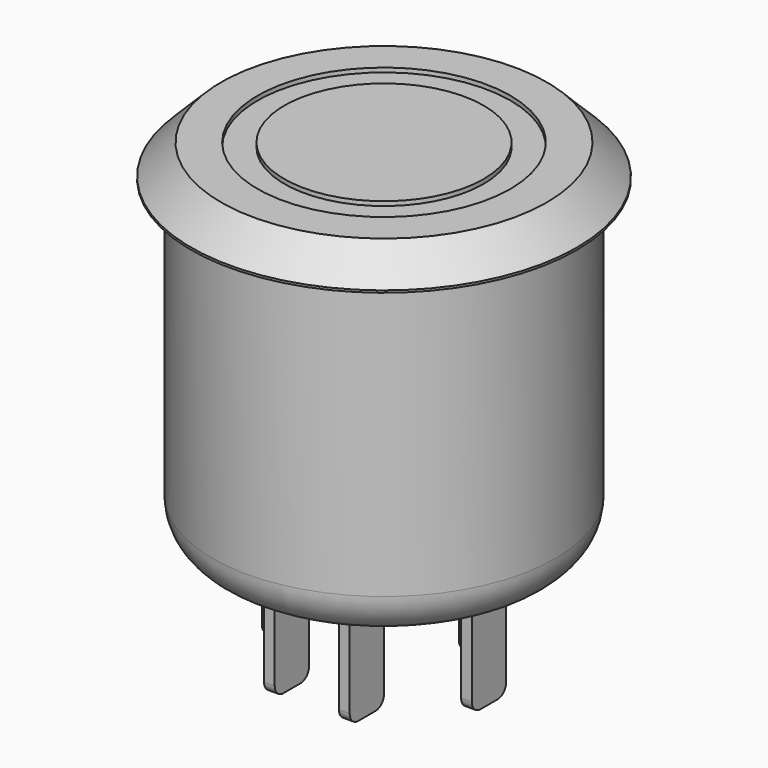
from build123d import *

# Parameters (mm, degrees)
F0_R     = 9
F1_DEPTH = 1.5
F2_SIZE  = 1.4
F3_R     = 5.9
F3_R_2   = 4.65
F4_DEPTH = 0.2
F5_R     = 8
F6_DEPTH = 15
F7_R     = 2
F8_W     = 0.5
F8_H     = 2
F9_DEPTH = 5
F10_R    = 0.5


with BuildPart() as f1:
    # F0 (on Top) → F1 (new body)
    with BuildSketch(Plane.XY):
        Circle(F0_R)
    extrude(amount=F1_DEPTH)

    # F2
    f2_edges = [f1.edges().sort_by_distance(p)[0] for p in [
        (-9, 0, 1.5),
    ]]
    chamfer(f2_edges, length=F2_SIZE)

    # F3 (on face) → F4 (cut)
    with BuildSketch(Plane.XY.offset(1.5)):
        Circle(F3_R)
        Circle(F3_R_2, mode=Mode.SUBTRACT)
    extrude(amount=-F4_DEPTH, mode=Mode.SUBTRACT)

    # F5 (on face) → F6 (join)
    with BuildSketch(Plane(origin=(0, 0, 0), x_dir=(1, 0, 0), z_dir=(0, 0, -1))):
        Circle(F5_R)
    extrude(amount=F6_DEPTH)

    # F7
    f7_edges = [f1.edges().sort_by_distance(p)[0] for p in [
        (-8, 0, -15),
    ]]
    fillet(f7_edges, radius=F7_R)

    # F8 (on face) → F9 (join)
    with BuildSketch(Plane(origin=(0, 0, -15), x_dir=(1, 0, 0), z_dir=(0, 0, -1))):
        with Locations((-1.75, 3.5)):
            Rectangle(F8_W, F8_H)
        with Locations((1.75, 3.5)):
            Rectangle(F8_W, F8_H)
        with Locations((1.75, -3.5)):
            Rectangle(F8_W, F8_H)
        with Locations((-1.75, -3.5)):
            Rectangle(F8_W, F8_H)
        with Locations((-4.65, 0)):
            Rectangle(F8_W, F8_H)
        with Locations((4.65, 0)):
            Rectangle(F8_W, F8_H)
    extrude(amount=F9_DEPTH)

    # F10
    f10_edges = [f1.edges().sort_by_distance(p)[0] for p in [
        (-1.75, -4.5, -20),
        (1.75, -4.5, -20),
        (4.65, -1, -20),
        (-4.65, -1, -20),
        (1.75, 2.5, -20),
        (-1.75, 2.5, -20),
        (-4.65, 1, -20),
        (-1.75, -2.5, -20),
        (1.75, -2.5, -20),
        (4.65, 1, -20),
        (1.75, 4.5, -20),
        (-1.75, 4.5, -20),
    ]]
    fillet(f10_edges, radius=F10_R)


solid = f1.part
